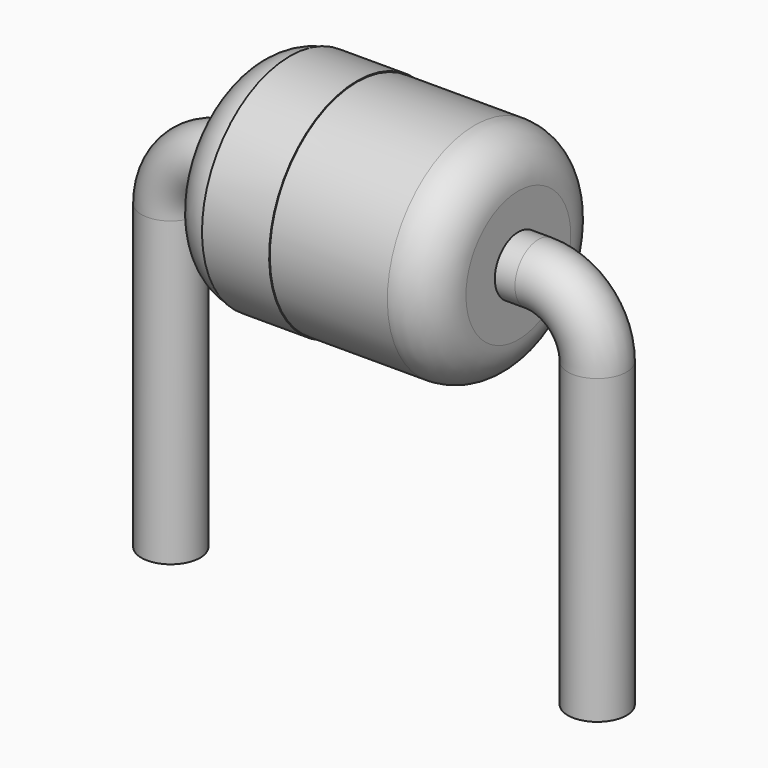
from build123d import *

# Parameters (mm, degrees)
SKETCH002_W = 3.2
SKETCH002_H = 1.3
FILLET_R    = 0.52
SKETCH003_W = 0.8
SKETCH003_H = 0.02
SKETCH_R    = 0.35


with BuildPart() as fillet_body:
    # Sketch002 → Revolution (revolve)
    with BuildSketch(Plane.XZ):
        with Locations((2.54, 2.45)):
            Rectangle(SKETCH002_W, SKETCH002_H)
    revolve(axis=Axis((0.94, 0, 1.8), (1, 0, 0)))

    # Fillet
    fillet_edges = [fillet_body.edges().sort_by_distance(p)[0] for p in [
        (0.94, 0, 0.5),
        (4.14, 0, 0.5),
    ]]
    fillet(fillet_edges, radius=FILLET_R)


with BuildPart() as revolution001:
    # Sketch003 → Revolution001 (revolve)
    with BuildSketch(Plane.XZ):
        with Locations((1.82, 3.1)):
            Rectangle(SKETCH003_W, SKETCH003_H)
    revolve(axis=Axis((0, 0, 1.8), (1, 0, 0)))


with BuildPart() as sweep_body:
    # Sweep: sweep along a path in Sketch001
    with BuildLine(Plane.XZ) as sweep_path:
        Line((0, -2.5), (0, 1.1))
        ThreePointArc((0, 1.1), (0.205025, 1.594975), (0.7, 1.8))
        Line((0.7, 1.8), (4.38, 1.8))
        ThreePointArc((4.38, 1.8), (4.874975, 1.594975), (5.08, 1.1))
        Line((5.08, 1.1), (5.08, -2.5))
    # Sketch → Sweep (sweep)
    with BuildSketch(Plane.XY.offset(-2)):
        Circle(SKETCH_R)
    sweep(path=sweep_path.line)


solid = Compound([fillet_body.part, revolution001.part, sweep_body.part])
